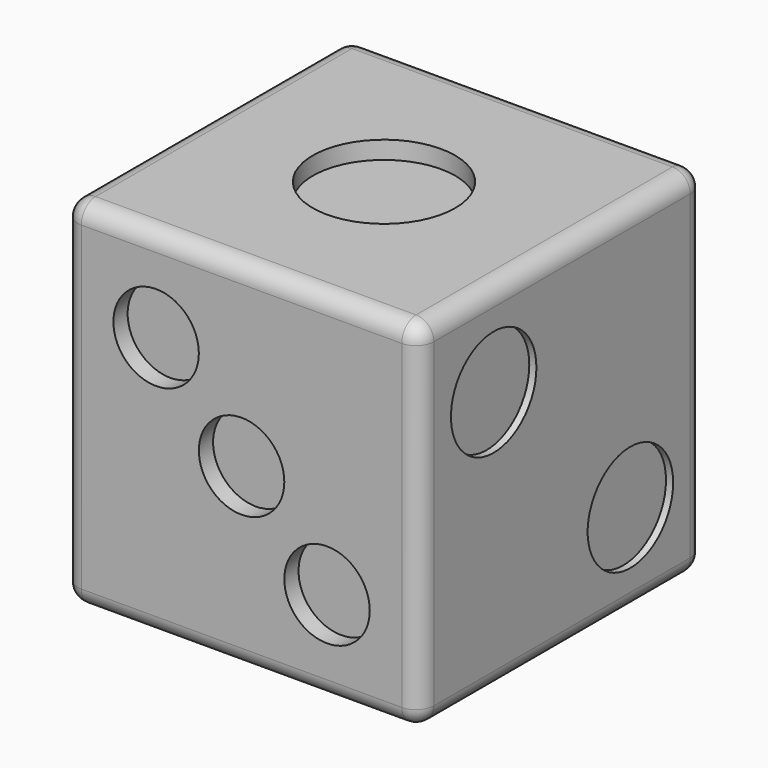
from build123d import *

# Parameters (mm, degrees)
F0_W      = 100
F0_H      = 100
F1_DEPTH  = 50
F2_R      = 5
F3_R      = 5
F4_R      = 20
F5_DEPTH  = 5
F6_R      = 9
F7_DEPTH  = 5
F8_R      = 12
F9_DEPTH  = 5
F10_R     = 12
F11_DEPTH = 5
F12_R     = 15
F13_DEPTH = 2
F14_R     = 12
F15_DEPTH = 5


with BuildPart() as f1:
    # F0 (on Front) → F1 (new body, symmetric)
    with BuildSketch(Plane.XZ):
        Rectangle(F0_W, F0_H)
    extrude(amount=F1_DEPTH, both=True)

    # F2
    f2_edges = [f1.edges().sort_by_distance(p)[0] for p in [
        (0, -50, 50),
        (0, 50, -50),
        (0, -50, -50),
        (0, 50, 50),
    ]]
    fillet(f2_edges, radius=F2_R)

    # F3
    f3_edges = [f1.edges().sort_by_distance(p)[0] for p in [
        (50, 0, 50),
        (-50, 0, 50),
    ]]
    fillet(f3_edges, radius=F3_R)

    # F4 (on face) → F5 (cut)
    with BuildSketch(Plane.XY.offset(50)):
        Circle(F4_R)
    extrude(amount=-F5_DEPTH, mode=Mode.SUBTRACT)

    # F6 (on face) → F7 (cut)
    with BuildSketch(Plane(origin=(0, 0, -50), x_dir=(1, 0, 0), z_dir=(0, 0, -1))):
        with Locations((-24, -24)):
            Circle(F6_R)
        with Locations((-24, 24)):
            Circle(F6_R)
        with Locations((-24, 0)):
            Circle(F6_R)
        with Locations((24, 24)):
            Circle(F6_R)
        with Locations((24, 0)):
            Circle(F6_R)
        with Locations((24, -24)):
            Circle(F6_R)
    extrude(amount=-F7_DEPTH, mode=Mode.SUBTRACT)

    # F8 (on face) → F9 (cut)
    with BuildSketch(Plane.XZ.offset(50)):
        with Locations((-24, 24)):
            Circle(F8_R)
        Circle(F8_R)
        with Locations((24, -24)):
            Circle(F8_R)
    extrude(amount=-F9_DEPTH, mode=Mode.SUBTRACT)

    # F10 (on face) → F11 (cut)
    with BuildSketch(Plane(origin=(0, 50, 0), x_dir=(-1, 0, 0), z_dir=(0, 1, 0))):
        with Locations((24, 24)):
            Circle(F10_R)
        with Locations((-24, 24)):
            Circle(F10_R)
        with Locations((24, -24)):
            Circle(F10_R)
        with Locations((-24, -24)):
            Circle(F10_R)
    extrude(amount=-F11_DEPTH, mode=Mode.SUBTRACT)

    # F12 (on face) → F13 (cut)
    with BuildSketch(Plane.YZ.offset(50)):
        with Locations((-24, 24)):
            Circle(F12_R)
        with Locations((24, -24)):
            Circle(F12_R)
    extrude(amount=-F13_DEPTH, mode=Mode.SUBTRACT)

    # F14 (on face) → F15 (cut)
    with BuildSketch(Plane(origin=(-50, 0, 0), x_dir=(0, -1, 0), z_dir=(-1, 0, 0))):
        with Locations((-26, 26)):
            Circle(F14_R)
        with Locations((26, 26)):
            Circle(F14_R)
        Circle(F14_R)
        with Locations((-26, -26)):
            Circle(F14_R)
        with Locations((26, -26)):
            Circle(F14_R)
    extrude(amount=-F15_DEPTH, mode=Mode.SUBTRACT)


solid = f1.part
